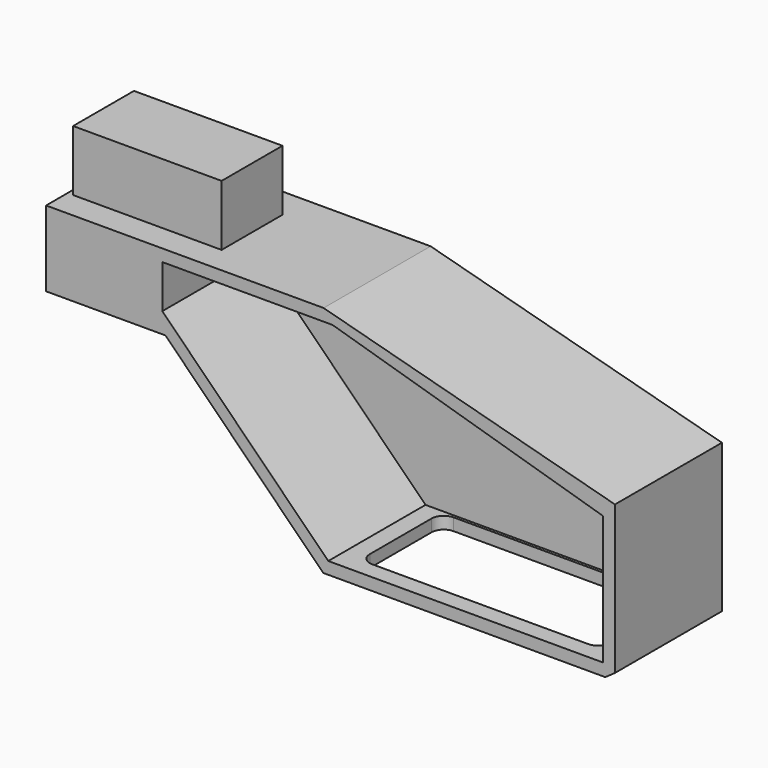
from build123d import *

# Parameters (mm, degrees)
F1_DEPTH      = 55
F3_DEPTH      = 50
F3_DEPTH_BACK = 50
F5_DEPTH      = 25
F7_W          = 61.0898286104
F7_H          = 31.3037931919
F8_DEPTH      = 25


with BuildPart() as f1:
    # F0 (on Front) → F1 (new body)
    with BuildSketch(Plane.XZ):
        Polygon((0, -113.1189545868), (0, -52.0862899721), (-119.8339686111, -19.9197847396), (-234, -19.9197847396), (-234, -51.0128117148), (-184.9069730248, -51.0128117148), (-120, -115.9197847396), (-4, -115.9197847396), align=None)
    extrude(amount=F1_DEPTH)

    # F2 (on face) → F3 (cut, two sides)
    with BuildSketch(Plane.XZ.offset(55)) as f3_sk:
        Polygon((-116.1406338215, -24.8601548374), (-186.1951341673, -24.8601548374), (-186.1951341673, -42.6535827604), (-117.9289321881, -110.9197847396), (-5, -110.9197847396), (-5, -57.8232035041), align=None)
    extrude(amount=-F3_DEPTH, mode=Mode.SUBTRACT)
    extrude(f3_sk.sketch, amount=F3_DEPTH_BACK, mode=Mode.SUBTRACT)

    # F4 (on face) → F5 (cut)
    with BuildSketch(Plane.XY.offset(-110.9197847396)):
        with BuildLine():
            Line((-16.626615189, -6.1635137536), (-105.4877889156, -6.1635137536))
            ThreePointArc((-105.4877889156, -6.1635137536), (-109.0233228216, -7.6279798476), (-110.4877889156, -11.1635137536))
            Line((-110.4877889156, -11.1635137536), (-110.4877889156, -42.9515232146))
            ThreePointArc((-110.4877889156, -42.9515232146), (-109.0233228216, -46.4870571205), (-105.4877889156, -47.9515232146))
            Line((-105.4877889156, -47.9515232146), (-16.626615189, -47.9515232146))
            ThreePointArc((-16.626615189, -47.9515232146), (-13.0910812831, -46.4870571205), (-11.626615189, -42.9515232146))
            Line((-11.626615189, -42.9515232146), (-11.626615189, -11.1635137536))
            ThreePointArc((-11.626615189, -11.1635137536), (-13.0910812831, -7.6279798476), (-16.626615189, -6.1635137536))
        make_face()
    extrude(amount=-F5_DEPTH, mode=Mode.SUBTRACT)


with BuildPart() as f8:
    # F7 (on offset) → F8 (new body)
    with BuildSketch(Plane.XY.offset(-19.9197847396)):
        with Locations((-201.2057080865, -28.2735787332)):
            Rectangle(F7_W, F7_H)
    extrude(amount=F8_DEPTH)


solid = Compound([f1.part, f8.part])
